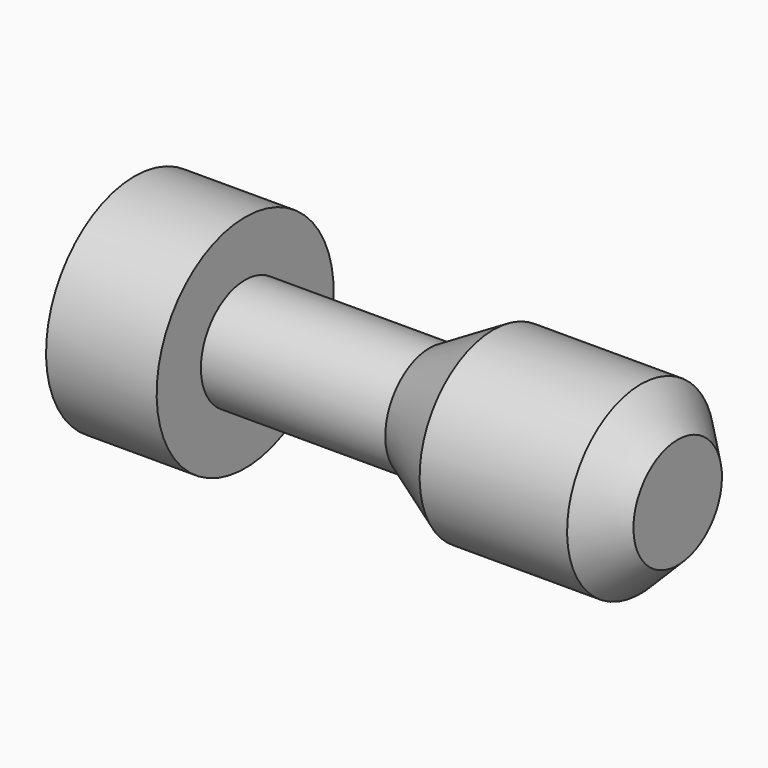
from build123d import *

# Parameters (mm, degrees)
F0_W    = 10
F0_H    = 5
F0_H_2  = 3
F2_SIZE = 2


with BuildPart() as f1:
    # F0 (on Front) → F1 (revolve)
    with BuildSketch(Plane.XZ):
        with Locations((-5, 2.5)):
            Rectangle(F0_W, F0_H)
        Polygon((-10, 0), (-10, 5), (-13.464102, 3), (-13.464102, 0), align=None)
        with Locations((-18.464102, 1.5)):
            Rectangle(F0_W, F0_H_2)
        Polygon((-23.464102, 0), (-23.464102, 3), (-23.464102, 6), (-29.464102, 6), (-29.464102, 0), align=None)
    revolve(axis=Axis((-14.839673, 0, 0), (-1, 0, 0)))

    # F2
    f2_edges = [f1.edges().sort_by_distance(p)[0] for p in [
        (0, 0, -5),
    ]]
    chamfer(f2_edges, length=F2_SIZE)


solid = f1.part
